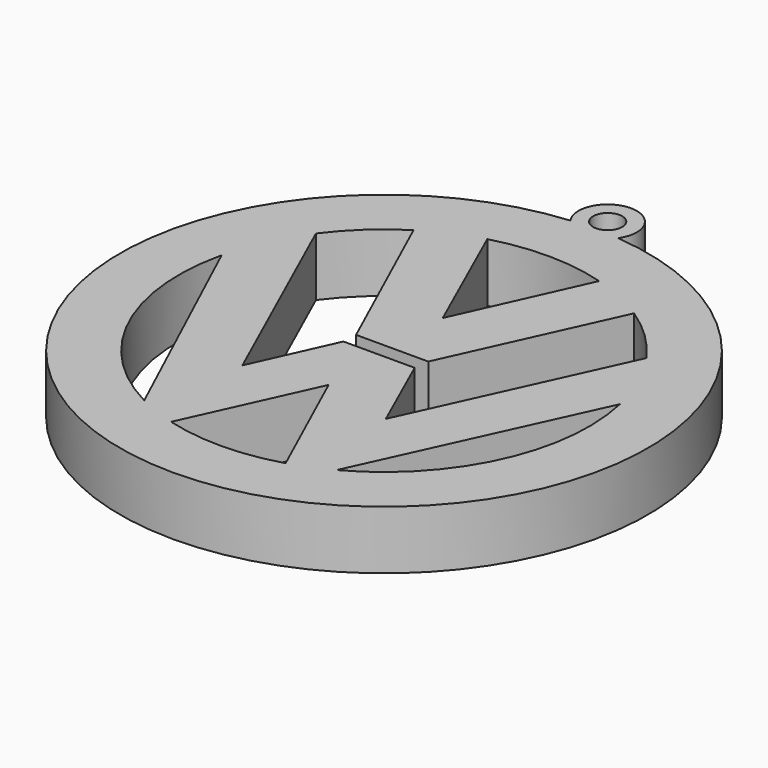
from build123d import *

# Parameters (mm, degrees)
F0_R     = 1.241195
F1_DEPTH = 5


with BuildPart() as f1:
    # F0 (on Top) → F1 (new body)
    with BuildSketch(Plane.XY):
        with BuildLine():
            ThreePointArc((2.028342, 22.408387), (0, 26.323733), (-2.028342, 22.408387))
            ThreePointArc((-2.028342, 22.408387), (0, -22.5), (2.028342, 22.408387))
        make_face()
        with BuildLine():
            ThreePointArc((-7.988275, -15.570403), (-15.882311, -7.348618), (-17.038951, 3.990506))
            Line((-17.038951, 3.990506), (-7.988275, -15.570403))
        make_face(mode=Mode.SUBTRACT)
        with BuildLine():
            ThreePointArc((5.022585, -16.76376), (0.186737, -17.499004), (-4.6637, -16.867125))
            Line((-4.6637, -16.867125), (0.201713, -6.156514))
            Line((0.201713, -6.156514), (5.022585, -16.76376))
        make_face(mode=Mode.SUBTRACT)
        with BuildLine():
            Line((8.288617, -15.412619), (17.083899, 3.793469))
            ThreePointArc((17.083899, 3.793469), (15.91099, -7.286317), (8.288617, -15.412619))
        make_face(mode=Mode.SUBTRACT)
        with BuildLine():
            Line((3.280106, 0.620191), (9.634679, 14.609003))
            ThreePointArc((9.634679, 14.609003), (12.181654, 12.564128), (14.304266, 10.081566))
            Line((14.304266, 10.081566), (6.233971, -7.599009))
            Line((6.233971, -7.599009), (3.134064, -0.652507))
            Line((3.134064, -0.652507), (-2.938647, -0.652507))
            Line((-2.938647, -0.652507), (-6.040588, -7.544222))
            Line((-6.040588, -7.544222), (-14.098893, 10.366833))
            ThreePointArc((-14.098893, 10.366833), (-11.921222, 12.811498), (-9.326312, 14.807765))
            Line((-9.326312, 14.807765), (-2.878222, 0.620191))
            Line((-2.878222, 0.620191), (3.280106, 0.620191))
        make_face(mode=Mode.SUBTRACT)
        with BuildLine():
            ThreePointArc((-4.6819, 16.862082), (0.121059, 17.499581), (4.914738, 16.795694))
            Line((4.914738, 16.795694), (0.110725, 6.122414))
            Line((0.110725, 6.122414), (-4.6819, 16.862082))
        make_face(mode=Mode.SUBTRACT)
        with Locations((0, 23.84067)):
            Circle(F0_R, mode=Mode.SUBTRACT)
    extrude(amount=F1_DEPTH)


solid = f1.part
